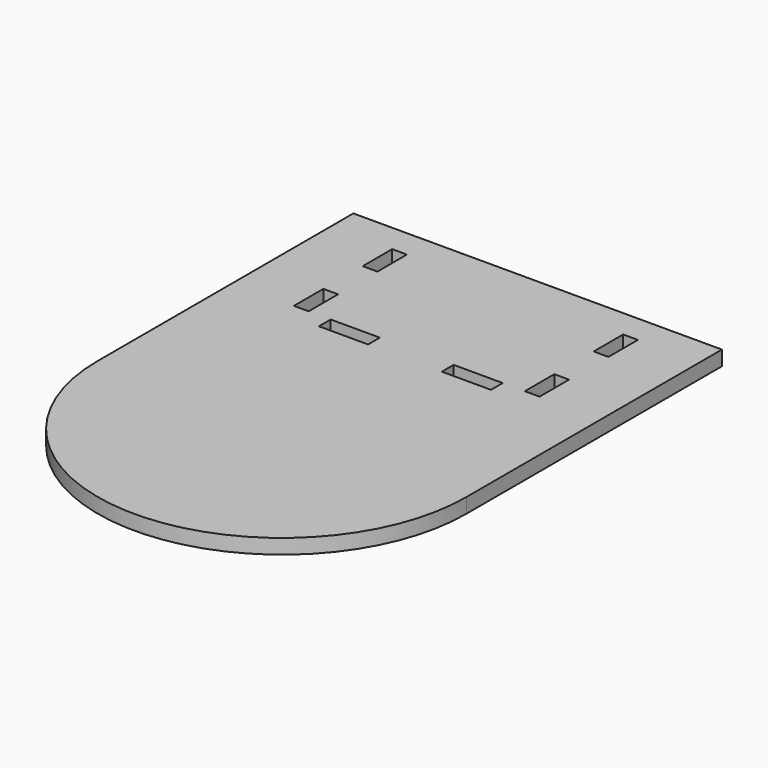
from build123d import *

# Parameters (mm, degrees)
F2_DEPTH = 12
F3_W     = 12
F3_H     = 30
F3_W_2   = 40
F3_H_2   = 12
F4_DEPTH = 12


with BuildPart() as f2:
    # F1 (on Top) → F2 (new body)
    with BuildSketch(Plane.XY):
        with BuildLine():
            ThreePointArc((-160.573531501, -1.948795747), (-10.573531501, 148.051204253), (139.426468499, -1.948795747))
            Line((139.426468499, -1.948795747), (139.426468499, 258.051204253))
            Line((139.426468499, 258.051204253), (-160.573531501, 258.051204253))
            Line((-160.573531501, 258.051204253), (-160.573531501, -1.948795747))
        make_face()
        with BuildLine():
            ThreePointArc((-160.573531501, -1.948795747), (-10.573531501, -151.948795747), (139.426468499, -1.948795747))
            Line((139.426468499, -1.948795747), (-160.573531501, -1.948795747))
        make_face()
        with BuildLine():
            Line((-160.573531501, -1.948795747), (139.426468499, -1.948795747))
            ThreePointArc((139.426468499, -1.948795747), (-10.573531501, 148.051204253), (-160.573531501, -1.948795747))
        make_face()
    extrude(amount=F2_DEPTH)

    # F3 (on face) → F4 (cut, through all)
    with BuildSketch(Plane.XY.offset(12)):
        with Locations((-104.573531501, 150.051204253)):
            Rectangle(F3_W, F3_H)
        with Locations((-104.573531501, 220.051204253)):
            Rectangle(F3_W, F3_H)
        with Locations((-60.573531501, 129.051204253)):
            Rectangle(F3_W_2, F3_H_2)
        with Locations((83.426468499, 220.051204253)):
            Rectangle(F3_W, F3_H)
        with Locations((39.426468499, 129.051204253)):
            Rectangle(F3_W_2, F3_H_2)
        with Locations((83.426468499, 150.051204253)):
            Rectangle(F3_W, F3_H)
    extrude(amount=-F4_DEPTH, mode=Mode.SUBTRACT)


solid = f2.part
